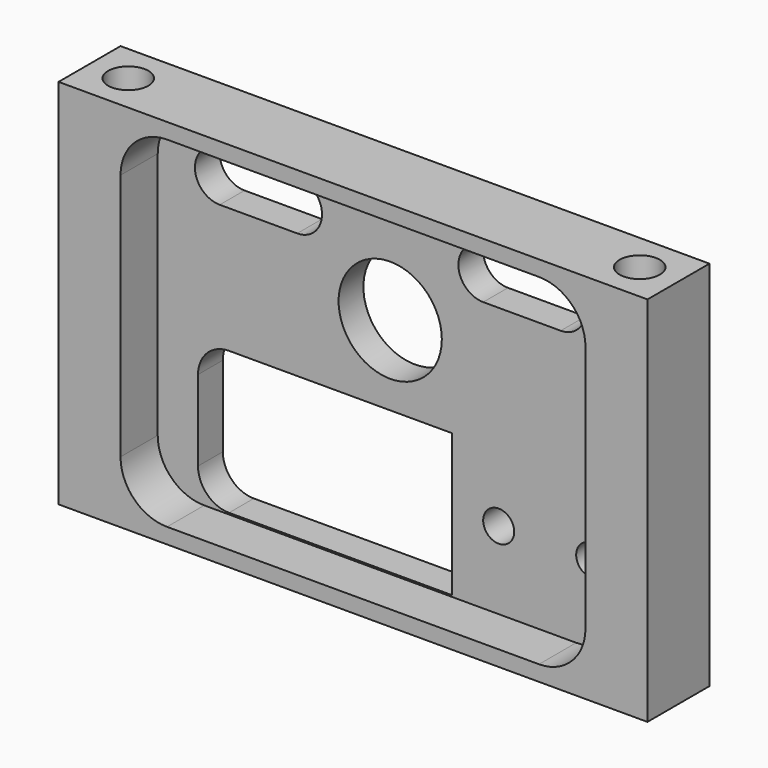
from build123d import *

# Parameters (mm, degrees)
SKETCH_W        = 38
SKETCH_H        = 5
SKETCH_R        = 1.3
PAD_DEPTH       = 12
SKETCH001_R     = 3.33
SKETCH001_R_2   = 1
POCKET_DEPTH    = 5.001
POCKET001_DEPTH = 3


with BuildPart() as part:
    # Sketch → Pad (new body, symmetric)
    with BuildSketch(Plane.XY):
        Rectangle(SKETCH_W, SKETCH_H)
        with Locations((-16.5, 0)):
            Circle(SKETCH_R, mode=Mode.SUBTRACT)
        with Locations((16.5, 0)):
            Circle(SKETCH_R, mode=Mode.SUBTRACT)
    extrude(amount=PAD_DEPTH, both=True)

    # Sketch001 (on Face3 of Pad) → Pocket (cut, through all)
    with BuildSketch(Plane.XZ.offset(2.5)):
        with Locations((0, 3.42)):
            Circle(SKETCH001_R)
        with Locations((7, -6)):
            Circle(SKETCH001_R_2)
        with Locations((13, -6)):
            Circle(SKETCH001_R_2)
        with BuildLine():
            Line((4, -1.7), (-10.4, -1.7))
            ThreePointArc((-10.4, -1.7), (-11.814214, -2.285786), (-12.4, -3.7))
            Line((-12.4, -3.7), (-12.4, -8.9))
            ThreePointArc((-12.4, -8.9), (-11.814214, -10.314214), (-10.4, -10.9))
            Line((-10.4, -10.9), (4, -10.9))
            Line((4, -10.9), (4, -1.7))
        make_face()
        with BuildLine():
            ThreePointArc((-11, 9.6), (-12.6, 8), (-11, 6.4))
            Line((-11, 6.4), (-6, 6.4))
            ThreePointArc((-6, 6.4), (-4.4, 8), (-6, 9.6))
            Line((-11, 9.6), (-6, 9.6))
        make_face()
        with BuildLine():
            ThreePointArc((6, 9.6), (4.4, 8), (6, 6.4))
            Line((6, 6.4), (11, 6.4))
            ThreePointArc((11, 6.4), (12.6, 8), (11, 9.6))
            Line((6, 9.6), (11, 9.6))
        make_face()
    extrude(amount=-POCKET_DEPTH, mode=Mode.SUBTRACT)

    # Sketch002 (on Face23 of Pocket) → Pocket001 (cut)
    with BuildSketch(Plane.XZ.offset(2.5)):
        with BuildLine():
            Line((-12, 11), (12, 11))
            ThreePointArc((15, 8), (14.12132, 10.12132), (12, 11))
            Line((15, 8), (15, -8))
            ThreePointArc((12, -11), (14.12132, -10.12132), (15, -8))
            Line((12, -11), (-12, -11))
            ThreePointArc((-15, -8), (-14.12132, -10.12132), (-12, -11))
            Line((-15, -8), (-15, 8))
            ThreePointArc((-12, 11), (-14.12132, 10.12132), (-15, 8))
        make_face()
    extrude(amount=-POCKET001_DEPTH, mode=Mode.SUBTRACT)


solid = part.part
